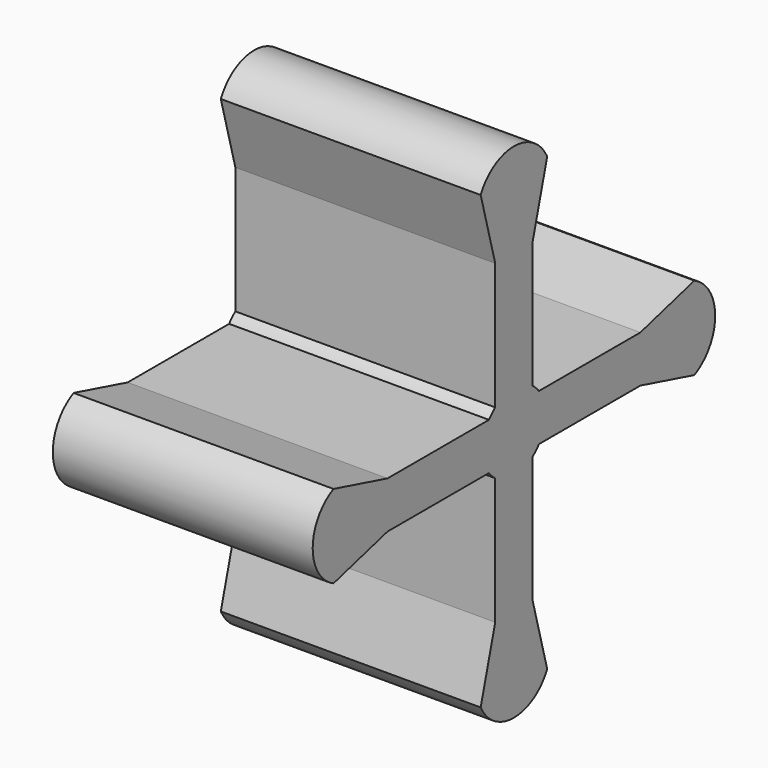
from build123d import *

# Parameters (mm, degrees)
PAD_DEPTH = 250


with BuildPart() as part:
    # Sketch → Pad (new body)
    with BuildSketch(Plane.YZ.offset(-125)):
        with BuildLine():
            Line((-152, -22.5), (-217, -40.001854))
            ThreePointArc((-217, 40.001854), (-242, 0), (-217, -40.001854))
            Line((-217, 40.001854), (-152, 22.5))
            Line((-152, 22.5), (-30, 22.5))
            ThreePointArc((-22.5, 30), (-26.516504, 26.516504), (-30, 22.5))
            Line((-22.5, 30), (-22.5, 152))
            Line((-22.5, 152), (-40.001854, 217))
            ThreePointArc((40.001854, 217), (0, 242), (-40.001854, 217))
            Line((40.001854, 217), (22.5, 152))
            Line((22.5, 152), (22.5, 30))
            ThreePointArc((30.00139, 22.498146), (26.517324, 26.515685), (22.5, 30))
            Line((30.00139, 22.498146), (152.00139, 22.498146))
            Line((152.00139, 22.498146), (217.00139, 40))
            ThreePointArc((217.00139, -40), (242.00139, 0), (217.00139, 40))
            Line((217.00139, -40), (152.00139, -22.498146))
            Line((152.00139, -22.498146), (30.00139, -22.498146))
            ThreePointArc((22.5, -30), (26.517324, -26.515685), (30.00139, -22.498146))
            Line((22.5, -30), (22.5, -152))
            Line((22.5, -152), (40.001854, -217))
            ThreePointArc((-40.001854, -217), (0, -242), (40.001854, -217))
            Line((-22.5, -152), (-40.001854, -217))
            Line((-22.5, -30), (-22.5, -152))
            ThreePointArc((-30, -22.5), (-26.516504, -26.516504), (-22.5, -30))
            Line((-152, -22.5), (-30, -22.5))
        make_face()
    extrude(amount=PAD_DEPTH)


solid = part.part
